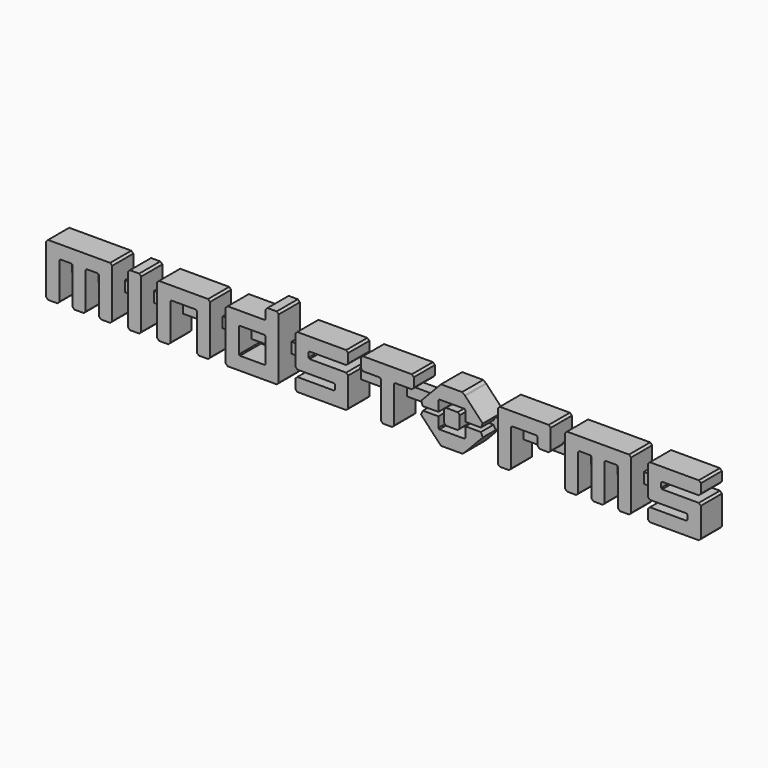
from build123d import *

# Parameters (mm, degrees)
F1_DEPTH = 1.27
F2_W     = 31.369
F2_H     = 0.508
F3_DEPTH = 0.508


with BuildPart() as f1:
    # F0 (on Front) → F1 (new body)
    with BuildSketch(Plane.XZ):
        Polygon((5.1420522113, -0.3534501214), (4.4278906574, -0.3534501214), (4.4278906574, -0.8301767486), (4.4278906574, -0.8445667441), (4.3793161332, -0.8913176514), (4.3649592943, -0.8913176514), (3.1848801882, -0.8913176514), (3.1686997324, -0.8913176514), (3.1219488251, -0.8391622066), (3.1219488251, -0.8319672088), (3.1237392854, -0.3534501214), (2.4059968109, -0.3534501214), (2.3754263595, -0.3534501214), (2.2908768464, -0.5531527557), (2.3052336853, -0.5675427512), (3.1147538273, -1.4219901835), (3.148938356, -1.4561747122), (3.2514256285, -1.5605187583), (3.2982096924, -1.5605187583), (4.2534202503, -1.5605187583), (4.285781162, -1.5605187583), (4.3847538273, -1.4705647077), (4.417114739, -1.4417847166), (5.2463962574, -0.5675427512), (5.260786253, -0.5513291387), (5.1672512818, -0.3534501214), align=None)
    extrude(amount=F1_DEPTH)



with BuildPart() as f1b:
    # F0 (on Front) → F1, piece 2 (new body)
    with BuildSketch(Plane.XZ):
        Polygon((4.4278906574, 0.3121037517), (4.4297142743, -0.1610087983), (5.1438426716, -0.1627992585), (5.1690417421, -0.1627992585), (5.260786253, 0.036870219), (5.2463962574, 0.0512602146), (4.417114739, 0.9255353367), (4.3883347479, 0.9561057881), (4.2641961687, 1.0460598387), (4.2534202503, 1.0460598387), (3.2982096924, 1.0460598387), (3.2514256285, 1.0460598387), (3.148938356, 0.9399253322), (3.1147538273, 0.9039503433), (2.3052336853, 0.0512602146), (2.2908768464, 0.038693836), (2.3772168198, -0.1627992585), (2.4059968109, -0.1627992585), (3.1237392854, -0.1627992585), (3.1219488251, 0.3138942119), (3.1219488251, 0.3229128267), (3.1704901926, 0.3750682714), (3.1867038051, 0.3750682714), (4.3649592943, 0.3750682714), (4.3793161332, 0.3750682714), (4.4278906574, 0.3282842075), align=None)
    extrude(amount=F1_DEPTH)


with BuildPart() as f1c:
    # F0 (on Front) → F1, piece 3 (new body)
    with BuildSketch(Plane.XZ):
        Polygon((8.4321555974, 1.01187531), (8.401585146, 1.01187531), (6.1080718442, 1.01187531), (6.0756446192, 1.01187531), (5.9803191878, 0.9183403389), (5.9803191878, 0.8859462705), (5.9803191878, -1.4040192674), (5.9803191878, -1.4345897188), (6.0756446192, -1.52812469), (6.1080718442, -1.52812469), (6.4894067266, -1.52812469), (6.5200103347, -1.52812469), (6.6153357661, -1.4345897188), (6.6153357661, -1.4040192674), (6.6153357661, 0.3157178289), (6.6153357661, 0.3247032869), (6.6639102903, 0.3768587317), (6.6800575894, 0.3768587317), (7.8295330874, 0.3768587317), (7.8439562397, 0.3768587317), (7.8925307639, 0.3318982847), (7.8925307639, 0.3157178289), (7.8925307639, -0.0242706838), (7.8925307639, -0.0548742918), (7.9878561953, -0.1501997233), (8.0202502636, -0.1501997233), (8.401585146, -0.1501997233), (8.4321555974, -0.1501997233), (8.5275473422, -0.0548742918), (8.5275473422, -0.0242706838), (8.5275473422, 0.8859462705), (8.5275473422, 0.9183403389), align=None)
    extrude(amount=F1_DEPTH)


with BuildPart() as f1d:
    # F0 (on Front) → F1, piece 4 (new body)
    with BuildSketch(Plane.XZ):
        Polygon((13.8377541145, 0.1214197321), (13.8377541145, 0.3157178289), (13.8377541145, 0.3318982847), (13.8827477182, 0.3768587317), (13.898928174, 0.3768587317), (15.6168416534, 0.3768587317), (15.6474452614, 0.3768587317), (15.7445611531, 0.4740077801), (15.7445611531, 0.5045782315), (15.7445611531, 0.8859462705), (15.7445611531, 0.9183403389), (15.6474452614, 1.01187531), (15.6168416534, 1.01187531), (13.3286665757, 1.01187531), (13.296305664, 1.01187531), (13.2027706929, 0.9183403389), (13.2027706929, 0.8859462705), (13.2027706929, -0.4505991698), (13.2027706929, -0.4829932381), (13.296305664, -0.5801422865), (13.3286665757, -0.5801422865), (15.0519845926, -0.5801422865), (15.059212747, -0.5801422865), (15.1077541145, -0.6233122732), (15.1077541145, -0.639492729), (15.1077541145, -0.8319672088), (15.1077541145, -0.8463572044), (15.0573891301, -0.8913176514), (15.0501941323, -0.8931412683), (13.3286665757, -0.8931412683), (13.296305664, -0.8931412683), (13.2027706929, -0.99025716), (13.2027706929, -1.0226512284), (13.2027706929, -1.4040192674), (13.2027706929, -1.4345897188), (13.296305664, -1.52812469), (13.3286665757, -1.52812469), (15.6168416534, -1.52812469), (15.6474452614, -1.52812469), (15.7445611531, -1.4345897188), (15.7445611531, -1.4040192674), (15.7445611531, -0.0692642874), (15.7445611531, -0.036870219), (15.6474452614, 0.0566647521), (15.6168416534, 0.0566647521), (13.9007186343, 0.0566647521), (13.8845381784, 0.0566647521), (13.8377541145, 0.1052392763), align=None)
    extrude(amount=F1_DEPTH)


with BuildPart() as f1e:
    # F0 (on Front) → F1, piece 5 (new body)
    with BuildSketch(Plane.XZ):
        Polygon((-3.1201262082, 0.1214197321), (-3.1201262082, 0.3157178289), (-3.1201262082, 0.3318982847), (-3.0751657612, 0.3768587317), (-3.0589521487, 0.3768587317), (-1.3410386693, 0.3768587317), (-1.3104682179, 0.3768587317), (-1.2133523262, 0.4740077801), (-1.2133523262, 0.5045782315), (-1.2133523262, 0.8859462705), (-1.2133523262, 0.9183403389), (-1.3104682179, 1.01187531), (-1.3410386693, 1.01187531), (-3.629213747, 1.01187531), (-3.6615746587, 1.01187531), (-3.7551096298, 0.9183403389), (-3.7551096298, 0.8859462705), (-3.7551096298, -0.4505991698), (-3.7551096298, -0.4829932381), (-3.6615746587, -0.5801422865), (-3.629213747, -0.5801422865), (-1.9041052699, -0.5801422865), (-1.8969102721, -0.5801422865), (-1.8501262082, -0.6233122732), (-1.8501262082, -0.639492729), (-1.8501262082, -0.8319672088), (-1.8501262082, -0.8463572044), (-1.9005243493, -0.8913176514), (-1.9076861904, -0.8931412683), (-3.629213747, -0.8931412683), (-3.6615746587, -0.8931412683), (-3.7551096298, -0.99025716), (-3.7551096298, -1.0226512284), (-3.7551096298, -1.4040192674), (-3.7551096298, -1.4345897188), (-3.6615746587, -1.52812469), (-3.629213747, -1.52812469), (-1.3410386693, -1.52812469), (-1.3104682179, -1.52812469), (-1.2133523262, -1.4345897188), (-1.2133523262, -1.4040192674), (-1.2133523262, -0.0692642874), (-1.2133523262, -0.036870219), (-1.3104682179, 0.0566647521), (-1.3410386693, 0.0566647521), (-3.0571616884, 0.0566647521), (-3.0733421443, 0.0566647521), (-3.1201262082, 0.1052392763), align=None)
    extrude(amount=F1_DEPTH)


with BuildPart() as f1f:
    # F0 (on Front) → F1, piece 6 (new body)
    with BuildSketch(Plane.XZ):
        Polygon((-4.6527270488, 1.5605187583), (-4.6833306569, 1.5605187583), (-5.0629082357, 1.5605187583), (-5.095302304, 1.5605187583), (-5.1906277355, 1.4651933269), (-5.1906277355, 1.4327992585), (-5.1906277355, 1.0766302901), (-5.1906277355, 1.0604498342), (-5.2392022597, 1.01187531), (-5.2535590985, 1.01187531), (-6.9786675757, 1.01187531), (-7.011061644, 1.01187531), (-7.1046297719, 0.9183403389), (-7.1046297719, 0.8859462705), (-7.1046297719, -1.4040192674), (-7.1046297719, -1.4345897188), (-7.011061644, -1.52812469), (-6.9786675757, -1.52812469), (-4.6833306569, -1.52812469), (-4.6527270488, -1.52812469), (-4.5556111571, -1.4345897188), (-4.5556111571, -1.4040192674), (-4.5556111571, 1.4327992585), (-4.5556111571, 1.4651933269), align=None)
        Polygon((-5.1906277355, 0.3157178289), (-5.1906277355, -0.8319672088), (-5.1906277355, -0.8463572044), (-5.2392022597, -0.8931412683), (-5.2535590985, -0.8931412683), (-6.4066486738, -0.8931412683), (-6.4228622863, -0.8931412683), (-6.4695800369, -0.8463572044), (-6.4695800369, -0.8319672088), (-6.4695800369, 0.3157178289), (-6.4695800369, 0.3318982847), (-6.4228622863, 0.3768587317), (-6.4066486738, 0.3768587317), (-5.2535590985, 0.3768587317), (-5.2392022597, 0.3768587317), (-5.1906277355, 0.3318982847), align=None, mode=Mode.SUBTRACT)
    extrude(amount=F1_DEPTH)


with BuildPart() as f1g:
    # F0 (on Front) → F1, piece 7 (new body)
    with BuildSketch(Plane.XZ):
        Polygon((1.8447206707, 1.01187531), (1.8141502193, 1.01187531), (-0.4739917017, 1.01187531), (-0.5063526134, 1.01187531), (-0.6017443582, 0.9183403389), (-0.6017443582, 0.8859462705), (-0.6017443582, 0.5045782315), (-0.6017443582, 0.4740077801), (-0.5063526134, 0.3768587317), (-0.4739917017, 0.3768587317), (0.2977298344, 0.3768587317), (0.3120866733, 0.3768587317), (0.3589038939, 0.3264937472), (0.3606943542, 0.3175082892), (0.3606943542, -1.4040192674), (0.3606943542, -1.4345897188), (0.4541961687, -1.52812469), (0.486590237, -1.52812469), (0.8679251194, -1.52812469), (0.8985618841, -1.52812469), (0.9956777759, -1.4345897188), (0.9956777759, -1.4040192674), (0.9956777759, 0.3157178289), (0.9956777759, 0.3318982847), (1.0424618398, 0.3768587317), (1.0586422956, 0.3768587317), (1.8141502193, 0.3768587317), (1.8447206707, 0.3768587317), (1.9400792588, 0.4740077801), (1.9400792588, 0.5045782315), (1.9400792588, 0.8859462705), (1.9400792588, 0.9183403389), align=None)
    extrude(amount=F1_DEPTH)


with BuildPart() as f1h:
    # F0 (on Front) → F1, piece 8 (new body)
    with BuildSketch(Plane.XZ):
        Polygon((-7.9536726667, 1.01187531), (-7.9842431181, 1.01187531), (-10.2796131935, 1.01187531), (-10.3119741052, 1.01187531), (-10.4072995366, 0.9183403389), (-10.4072995366, 0.8859462705), (-10.4072995366, -1.4040192674), (-10.4072995366, -1.4345897188), (-10.3119741052, -1.52812469), (-10.2796131935, -1.52812469), (-9.9000687714, -1.52812469), (-9.86949832, -1.52812469), (-9.772316115, -1.4345897188), (-9.772316115, -1.4040192674), (-9.772316115, 0.3157178289), (-9.772316115, 0.3247032869), (-9.7237747474, 0.3768587317), (-9.7075611349, 0.3768587317), (-8.5562951767, 0.3768587317), (-8.5418720244, 0.3768587317), (-8.4933306569, 0.3318982847), (-8.4933306569, 0.3157178289), (-8.4933306569, -1.4040192674), (-8.4933306569, -1.4345897188), (-8.3979720688, -1.52812469), (-8.3656111571, -1.52812469), (-7.9842431181, -1.52812469), (-7.9536726667, -1.52812469), (-7.8583472352, -1.4345897188), (-7.8583472352, -1.4040192674), (-7.8583472352, 0.8859462705), (-7.8583472352, 0.9183403389), align=None)
    extrude(amount=F1_DEPTH)


with BuildPart() as f1i:
    # F0 (on Front) → F1, piece 9 (new body)
    with BuildSketch(Plane.XZ):
        Polygon((12.2943110422, 1.01187531), (12.2637405908, 1.01187531), (9.3424057084, 1.01187531), (9.3100447967, 1.01187531), (9.2146530519, 0.9183403389), (9.2146530519, 0.8859462705), (9.2146530519, -1.4040192674), (9.2146530519, -1.4345897188), (9.3100447967, -1.52812469), (9.3424057084, -1.52812469), (9.7219501305, -1.52812469), (9.7525537386, -1.52812469), (9.8497027869, -1.4345897188), (9.8497027869, -1.4040192674), (9.8497027869, 0.3157178289), (9.8497027869, 0.3318982847), (9.8964536942, 0.3768587317), (9.9126673067, 0.3768587317), (10.4217216889, 0.3768587317), (10.4361116844, 0.3768587317), (10.4847193653, 0.3318982847), (10.4847193653, 0.3157178289), (10.4847193653, -1.4040192674), (10.4847193653, -1.4345897188), (10.5800447967, -1.52812469), (10.6124057084, -1.52812469), (10.9937405908, -1.52812469), (11.0243441988, -1.52812469), (11.1214932472, -1.4345897188), (11.1214932472, -1.4040192674), (11.1214932472, 0.3157178289), (11.1214932472, 0.3318982847), (11.1682441545, 0.3768587317), (11.184457767, 0.3768587317), (11.6935453058, 0.3768587317), (11.7079021447, 0.3768587317), (11.7565098256, 0.3318982847), (11.7565098256, 0.3157178289), (11.7565098256, -1.4040192674), (11.7565098256, -1.4345897188), (11.8518021003, -1.52812469), (11.8841961687, -1.52812469), (12.2637405908, -1.52812469), (12.2943110422, -1.52812469), (12.3914932472, -1.4345897188), (12.3914932472, -1.4040192674), (12.3914932472, 0.8859462705), (12.3914932472, 0.9183403389), align=None)
    extrude(amount=F1_DEPTH)


with BuildPart() as f1j:
    # F0 (on Front) → F1, piece 10 (new body)
    with BuildSketch(Plane.XZ):
        Polygon((-12.6631137026, 1.01187531), (-12.693684154, 1.01187531), (-15.6168426534, 1.01187531), (-15.6492367217, 1.01187531), (-15.7445621531, 0.9183403389), (-15.7445621531, 0.8859462705), (-15.7445621531, -1.4040192674), (-15.7445621531, -1.4345897188), (-15.6492367217, -1.52812469), (-15.6168426534, -1.52812469), (-15.2354746143, -1.52812469), (-15.2049041629, -1.52812469), (-15.1077551145, -1.4345897188), (-15.1077551145, -1.4040192674), (-15.1077551145, 0.3157178289), (-15.1077551145, 0.3318982847), (-15.0610042073, 0.3768587317), (-15.0447905948, 0.3768587317), (-14.5357030559, 0.3768587317), (-14.521346217, 0.3768587317), (-14.4727716929, 0.3318982847), (-14.4727716929, 0.3157178289), (-14.4727716929, -1.4040192674), (-14.4727716929, -1.4345897188), (-14.3774131048, -1.52812469), (-14.3450521931, -1.52812469), (-13.963684154, -1.52812469), (-13.9331137026, -1.52812469), (-13.8377551145, -1.4345897188), (-13.8377551145, -1.4040192674), (-13.8377551145, 0.3157178289), (-13.8377551145, 0.3247032869), (-13.7910042073, 0.3768587317), (-13.7747905948, 0.3768587317), (-13.2657362126, 0.3768587317), (-13.251346217, 0.3768587317), (-13.2027716929, 0.3318982847), (-13.2027716929, 0.3157178289), (-13.2027716929, -1.4040192674), (-13.2027716929, -1.4345897188), (-13.1074131048, -1.52812469), (-13.0750521931, -1.52812469), (-12.693684154, -1.52812469), (-12.6631137026, -1.52812469), (-12.5659646542, -1.4345897188), (-12.5659646542, -1.4040192674), (-12.5659646542, 0.8859462705), (-12.5659646542, 0.9183403389), align=None)
    extrude(amount=F1_DEPTH)


with BuildPart() as f1k:
    # F0 (on Front) → F1, piece 11 (new body)
    with BuildSketch(Plane.XZ):
        Polygon((-11.1682451545, -1.4345897188), (-11.1682451545, -1.4040192674), (-11.1682451545, 0.8859462705), (-11.1682451545, 0.9183403389), (-11.2653942028, 1.01187531), (-11.2959646542, 1.01187531), (-11.6773326933, 1.01187531), (-11.709693605, 1.01187531), (-11.8050521931, 0.9183403389), (-11.8050521931, 0.8859462705), (-11.8050521931, -1.4040192674), (-11.8050521931, -1.4345897188), (-11.709693605, -1.52812469), (-11.6773326933, -1.52812469), (-11.2959646542, -1.52812469), (-11.2653942028, -1.52812469), align=None)
    extrude(amount=F1_DEPTH)


with BuildPart() as f1l:
    # F0 (on Front) → F1, piece 12 (new body)
    with BuildSketch(Plane.XZ):
        Polygon((4.0213567044, 0.1250338094), (3.5230782406, 0.1250338094), (3.4907173289, 0.1250338094), (3.3935351238, 0.027884761), (3.3935351238, -0.0062997676), (3.3935351238, -0.5045782315), (3.3935351238, -0.5351486829), (3.4907173289, -0.630507271), (3.5230782406, -0.630507271), (4.0213567044, -0.630507271), (4.0537507727, -0.630507271), (4.1508998211, -0.5351486829), (4.1508998211, -0.5045782315), (4.1508998211, -0.0062997676), (4.1508998211, 0.027884761), (4.0537507727, 0.1250338094), align=None)
    extrude(amount=F1_DEPTH)


with BuildPart() as f1_1:
    add(f1.part)

    add(f1b.part)  # F3 merges F1b

    add(f1c.part)  # F3 merges F1c

    add(f1d.part)  # F3 merges F1d

    add(f1e.part)  # F3 merges F1e

    add(f1f.part)  # F3 merges F1f

    add(f1g.part)  # F3 merges F1g

    add(f1h.part)  # F3 merges F1h

    add(f1i.part)  # F3 merges F1i

    add(f1j.part)  # F3 merges F1j

    add(f1k.part)  # F3 merges F1k

    add(f1l.part)  # F3 merges F1l
    # F2 (on Front) → F3 (join)
    with BuildSketch(Plane.XZ):
        with Locations((-0.0125352652, -0.254)):
            Rectangle(F2_W, F2_H)
    extrude(amount=F3_DEPTH)


solid = f1_1.part
